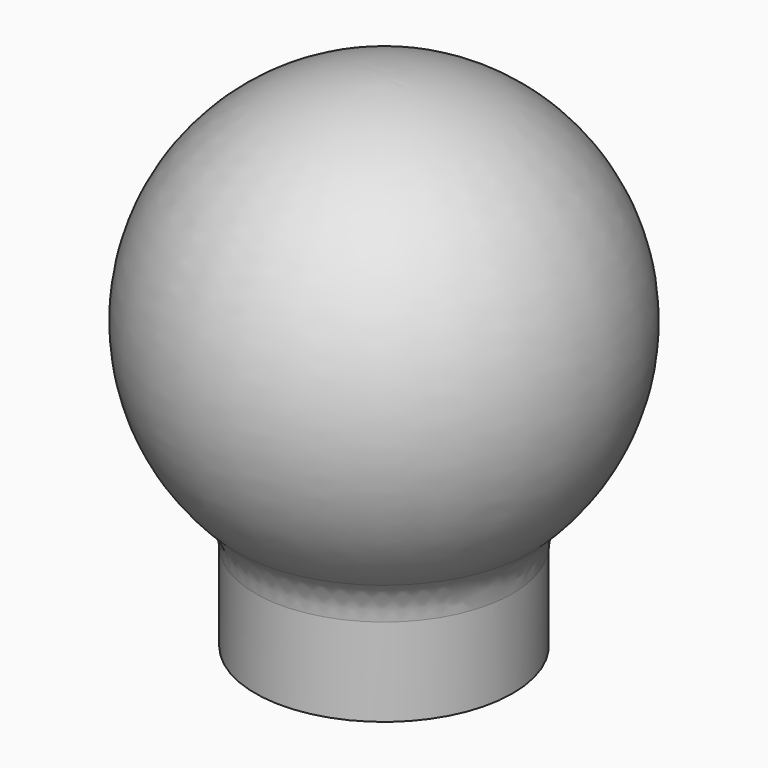
from build123d import *

# Parameters (mm, degrees)
F2_R = 2


with BuildPart() as f1:
    # F0 (on Front) → F1 (revolve)
    with BuildSketch(Plane.XZ):
        with BuildLine():
            Line((3, 7.5), (3, 0))
            Line((3, 0), (4.5, 0))
            Line((4.5, 0), (4.5, 4))
            ThreePointArc((4.5, 4), (7.115125, 12.371708), (0, 17.5))
            Line((0, 17.5), (0, 10.5))
            Line((0, 10.5), (3, 7.5))
        make_face()
    revolve(axis=Axis((0, 0, 14), (0, 0, 1)))

    # F2
    f2_edges = [f1.edges().sort_by_distance(p)[0] for p in [
        (-4.5, 0, 4),
    ]]
    fillet(f2_edges, radius=F2_R)


solid = f1.part
